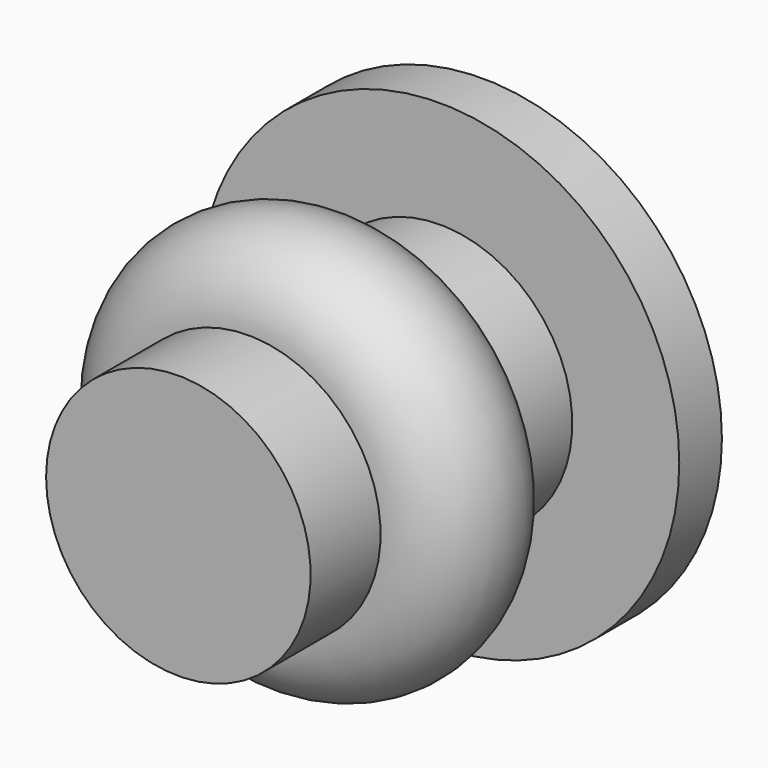
from build123d import *


with BuildPart() as f1:
    # F0 (on Top) → F1 (revolve)
    with BuildSketch(Plane.XY):
        with BuildLine():
            Line((0, -45.542292), (0, 40.664718))
            Line((0, 40.664718), (-54.23178, 40.664718))
            Line((-54.23178, 40.664718), (-54.23178, 28.583055))
            Line((-54.23178, 28.583055), (-29.982782, 28.583055))
            Line((-29.982782, 28.583055), (-29.982782, 7.704781))
            ThreePointArc((-29.982782, 7.704781), (-46.698476, -9.010913), (-29.982782, -25.726607))
            Line((-29.982782, -25.726607), (-29.982782, -45.542292))
            Line((-29.982782, -45.542292), (0, -45.542292))
        make_face()
    revolve(axis=Axis((0, -2.438787, 0), (0, -1, 0)))


solid = f1.part
